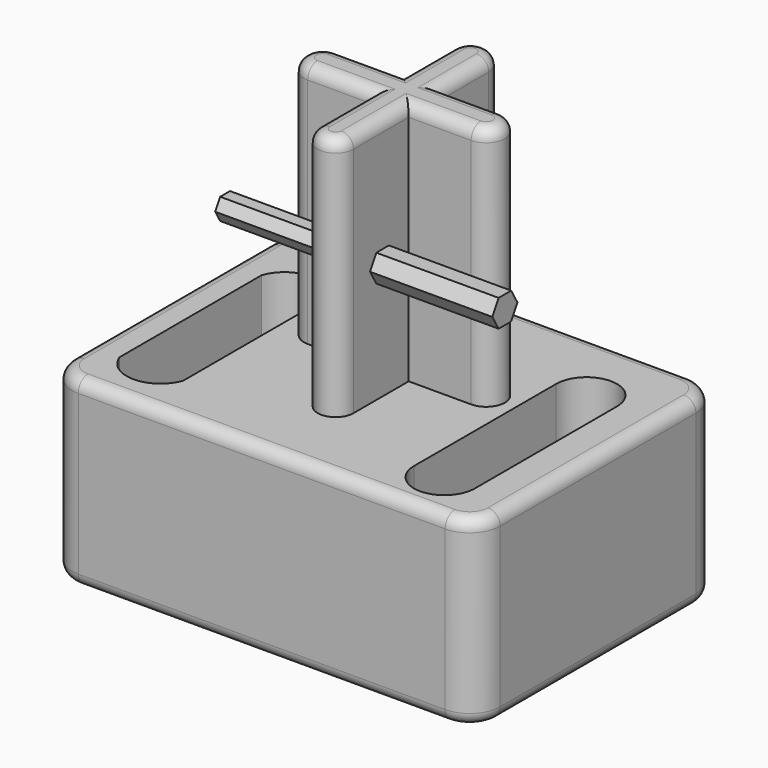
from build123d import *

# Parameters (mm, degrees)
F0_W     = 177.8
F0_H     = 127
F1_DEPTH = 76.2
F2_R     = 12.7
F4_DEPTH = 101.6
F6_DEPTH = 50.8
F8_DEPTH = 50.8
F9_R     = 5.08
F10_R    = 5.08


with BuildPart() as f1:
    # F0 (on Top) → F1 (new body)
    with BuildSketch(Plane.XY):
        with Locations((-8.271977, -2.472461)):
            Rectangle(F0_W, F0_H)
        with BuildLine():
            Line((-83.807927, -45.345337), (-83.807927, 28.44747))
            ThreePointArc((-83.807927, 28.44747), (-70.589135, 37.835685), (-57.370342, 28.44747))
            Line((-57.370342, 28.44747), (-57.370342, -45.345337))
            ThreePointArc((-57.370342, -45.345337), (-70.589135, -54.660871), (-83.807927, -45.345337))
        make_face(mode=Mode.SUBTRACT)
        with BuildLine():
            ThreePointArc((38.502203, 28.44747), (51.139944, 41.085211), (63.777684, 28.44747))
            Line((63.777684, 28.44747), (63.777684, -45.345337))
            ThreePointArc((63.777684, -45.345337), (51.139944, -57.983078), (38.502203, -45.345337))
            Line((38.502203, -45.345337), (38.502203, 28.44747))
        make_face(mode=Mode.SUBTRACT)
    extrude(amount=F1_DEPTH)

    # F2
    f2_edges = [f1.edges().sort_by_distance(p)[0] for p in [
        (80.628023, 61.027539, 38.1),
        (80.628023, -65.972461, 38.1),
        (-97.171977, 61.027539, 38.1),
        (-97.171977, -65.972461, 38.1),
    ]]
    fillet(f2_edges, radius=F2_R)

    # F3 (on face) → F4 (join)
    with BuildSketch(Plane.XY.offset(76.2)):
        with BuildLine():
            ThreePointArc((0.43315, 40.995162), (-7.205375, 48.633687), (-14.8439, 40.995162))
            Line((-14.8439, 40.995162), (-14.8439, 15.583021))
            Line((-14.8439, 15.583021), (-41.930374, 15.583021))
            ThreePointArc((-41.930374, 15.583021), (-49.721884, 7.79151), (-41.930374, 0))
            Line((-41.930374, 0), (-14.8439, 0))
            Line((-14.8439, 0), (-14.8439, -28.666684))
            ThreePointArc((-14.8439, -28.666684), (-7.42195, -36.088634), (0, -28.666684))
            Line((0, -28.666684), (0, 0))
            Line((0, 0), (25.956901, 0))
            ThreePointArc((25.956901, 0), (33.748411, 7.79151), (25.956901, 15.583021))
            Line((25.956901, 15.583021), (0.43315, 15.583021))
            Line((0.43315, 15.583021), (0.43315, 40.995162))
        make_face()
    extrude(amount=F4_DEPTH)

    # F5 (on face) → F6 (join)
    with BuildSketch(Plane.YZ):
        Polygon((-16.809505, 118.773863), (-10.288356, 118.773863), (-7.027781, 124.421343), (-10.288356, 130.068824), (-16.809505, 130.068824), (-20.070079, 124.421343), align=None)
    extrude(amount=F6_DEPTH)

    # F7 (on face) → F8 (join)
    with BuildSketch(Plane(origin=(-14.8439, 0, 0), x_dir=(0, -1, 0), z_dir=(-1, 0, 0))):
        Polygon((15.825561, 128.772154), (10.70182, 128.772154), (8.139949, 124.334864), (10.70182, 119.897574), (15.825561, 119.897574), (18.387432, 124.334864), align=None)
    extrude(amount=F8_DEPTH)

    # F9
    f9_edges = [f1.edges().sort_by_distance(p)[0] for p in [
        (0.43315, 28.289091, 177.8),
        (-7.205375, 48.633687, 177.8),
        (-14.8439, 28.289091, 177.8),
        (-28.387137, 15.583021, 177.8),
        (-49.721884, 7.79151, 177.8),
        (-28.387137, 0, 177.8),
        (-14.8439, -14.333342, 177.8),
        (-7.42195, -36.088634, 177.8),
        (0, -14.333342, 177.8),
        (12.97845, 0, 177.8),
        (33.748411, 7.79151, 177.8),
        (13.195026, 15.583021, 177.8),
    ]]
    fillet(f9_edges, radius=F9_R)

    # F10
    f10_edges = [f1.edges().sort_by_distance(p)[0] for p in [
        (-97.171977, -2.472461, 0),
        (-97.171977, 48.327539, 38.1),
        (-97.171977, -53.272461, 38.1),
        (-97.171977, -2.472461, 76.2),
    ]]
    fillet(f10_edges, radius=F10_R)


solid = f1.part
